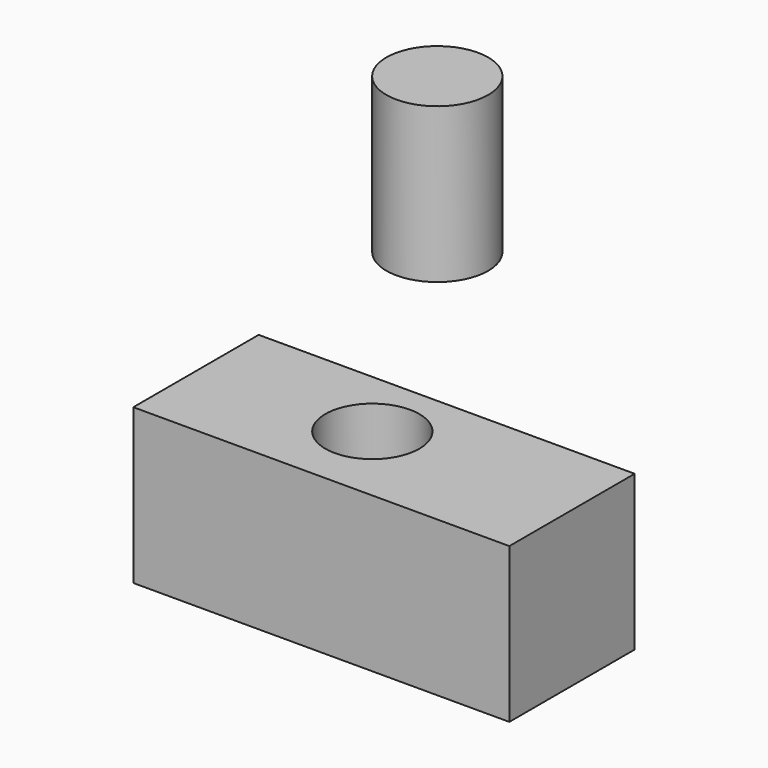
from build123d import *

# Parameters (mm, degrees)
F0_W     = 60
F0_H     = 25
F0_R     = 8.123158
F1_DEPTH = 24.7
F2_R     = 7.5
F3_DEPTH = 22.4


with BuildPart() as f1:
    # F0 (on Top) → F1 (new body)
    with BuildSketch(Plane.XY):
        with Locations((-5.028301, -17.934426)):
            Rectangle(F0_W, F0_H)
        with Locations((-61.251678, 62.974378)):
            Circle(F0_R)
    extrude(amount=F1_DEPTH)

    # F2 (on face) → F3 (cut)
    with BuildSketch(Plane.XY.offset(24.7)):
        with Locations((-7.696549, -16.927)):
            Circle(F2_R)
    extrude(amount=-F3_DEPTH, mode=Mode.SUBTRACT)


solid = f1.part
